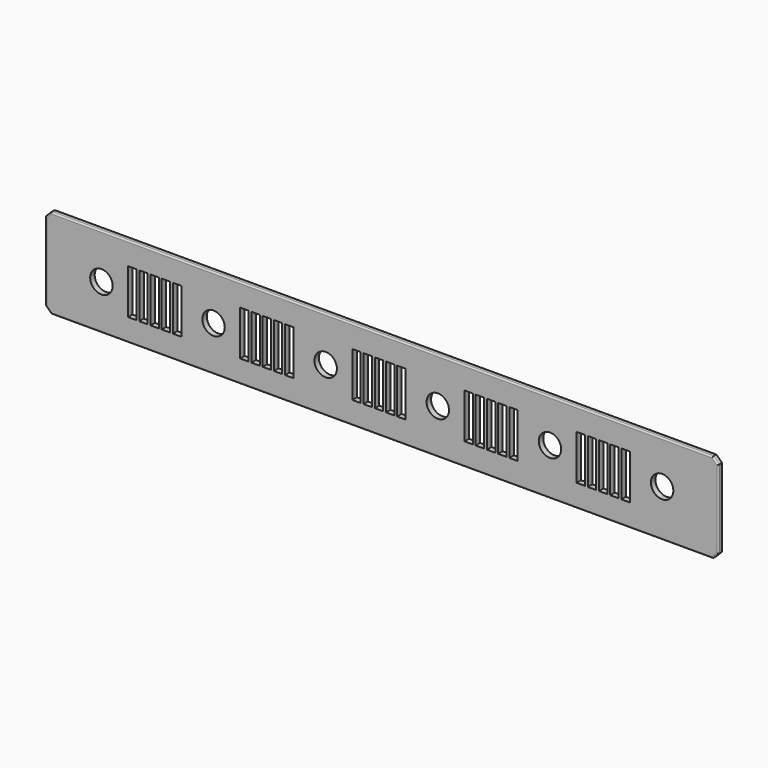
from build123d import *

# Parameters (mm, degrees)
F0_W     = 762
F0_H     = 101.6
F0_R     = 12.7
F2_DEPTH = 6.35
F3_SIZE  = 6.35
F4_W     = 9.525
F4_H     = 50.8
F5_DEPTH = 6.351
F6_R     = 1.6002


with BuildPart() as f2:
    # F0 (on Front) → F2 (new body)
    with BuildSketch(Plane.XZ):
        with Locations((218.576816025, -2.0831003785)):
            Rectangle(F0_W, F0_H)
        with Locations((-98.923183975, -2.0831003785)):
            Circle(F0_R, mode=Mode.SUBTRACT)
        with Locations((28.076816025, -2.0831003785)):
            Circle(F0_R, mode=Mode.SUBTRACT)
        with Locations((155.076816025, -2.0831003785)):
            Circle(F0_R, mode=Mode.SUBTRACT)
        with Locations((282.076816025, -2.0831003785)):
            Circle(F0_R, mode=Mode.SUBTRACT)
        with Locations((409.076816025, 0.1906121615)):
            Circle(F0_R, mode=Mode.SUBTRACT)
        with Locations((536.076816025, 0.1906121615)):
            Circle(F0_R, mode=Mode.SUBTRACT)
    extrude(amount=F2_DEPTH)

    # F3
    f3_edges = [f2.edges().sort_by_distance(p)[0] for p in [
        (-162.423184, -3.175, 48.7169),
        (-162.423184, -3.175, -52.8831),
        (599.576816, -3.175, -52.8831),
        (599.576816, -3.175, 48.7169),
    ]]
    chamfer(f3_edges, length=F3_SIZE)

    # F4 (on face) → F5 (cut, through all)
    with BuildSketch(Plane.XZ.offset(6.35)):
        with Locations((-63.985483975, -2.0831003785)):
            Rectangle(F4_W, F4_H)
        with Locations((-51.285483975, -2.0831003785)):
            Rectangle(F4_W, F4_H)
        with Locations((-38.585483975, -2.0831003785)):
            Rectangle(F4_W, F4_H)
        with Locations((-25.885483975, -2.0831003785)):
            Rectangle(F4_W, F4_H)
        with Locations((-13.185483975, -2.0831003785)):
            Rectangle(F4_W, F4_H)
        with Locations((63.014516025, -2.0831003785)):
            Rectangle(F4_W, F4_H)
        with Locations((75.714516025, -2.0831003785)):
            Rectangle(F4_W, F4_H)
        with Locations((88.414516025, -2.0831003785)):
            Rectangle(F4_W, F4_H)
        with Locations((101.114516025, -2.0831003785)):
            Rectangle(F4_W, F4_H)
        with Locations((113.814516025, -2.0831003785)):
            Rectangle(F4_W, F4_H)
        with Locations((190.014516025, -2.0831003785)):
            Rectangle(F4_W, F4_H)
        with Locations((202.714516025, -2.0831003785)):
            Rectangle(F4_W, F4_H)
        with Locations((215.414516025, -2.0831003785)):
            Rectangle(F4_W, F4_H)
        with Locations((228.114516025, -2.0831003785)):
            Rectangle(F4_W, F4_H)
        with Locations((240.814516025, -2.0831003785)):
            Rectangle(F4_W, F4_H)
        with Locations((317.014516025, -2.0831003785)):
            Rectangle(F4_W, F4_H)
        with Locations((329.714516025, -2.0831003785)):
            Rectangle(F4_W, F4_H)
        with Locations((342.414516025, -2.0831003785)):
            Rectangle(F4_W, F4_H)
        with Locations((355.114516025, -2.0831003785)):
            Rectangle(F4_W, F4_H)
        with Locations((367.814516025, -2.0831003785)):
            Rectangle(F4_W, F4_H)
        with Locations((444.014516025, -2.0831003785)):
            Rectangle(F4_W, F4_H)
        with Locations((456.714516025, -2.0831003785)):
            Rectangle(F4_W, F4_H)
        with Locations((469.414516025, -2.0831003785)):
            Rectangle(F4_W, F4_H)
        with Locations((482.114516025, -2.0831003785)):
            Rectangle(F4_W, F4_H)
        with Locations((494.814516025, -2.0831003785)):
            Rectangle(F4_W, F4_H)
    extrude(amount=-F5_DEPTH, mode=Mode.SUBTRACT)

    # F6
    f6_edges = [f2.edges().sort_by_distance(p)[0] for p in [
        (218.576816, -6.35, 48.7169),
        (-162.423184, 0, -2.0831),
        (-159.248184, -6.35, 45.5419),
        (-162.423184, -6.35, -2.0831),
        (-159.248184, -6.35, -49.7081),
        (218.576816, -6.35, -52.8831),
        (596.401816, -6.35, -49.7081),
        (599.576816, -6.35, -2.0831),
        (596.401816, -6.35, 45.5419),
        (596.401816, 0, 45.5419),
        (218.576816, 0, 48.7169),
        (599.576816, 0, -2.0831),
        (596.401816, 0, -49.7081),
        (218.576816, 0, -52.8831),
        (-159.248184, 0, -49.7081),
    ]]
    fillet(f6_edges, radius=F6_R)


solid = f2.part
